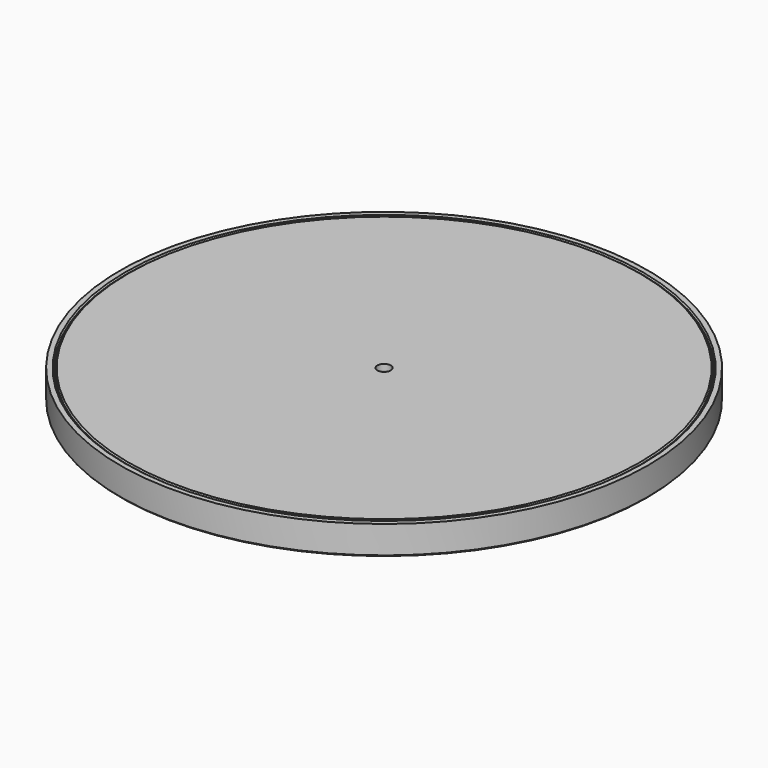
from build123d import *

# Parameters (mm, degrees)
F0_R      = 84
F1_DEPTH  = 1.2
F2_R      = 84
F2_R_2    = 82
F3_DEPTH  = 8
F4_R      = 82
F4_R_2    = 79
F5_DEPTH  = 3.5
F6_R      = 1
F8_DEPTH  = 6
F9_R      = 2.15
F10_DEPTH = 9.201
F12_DEPTH = 3
F13_R     = 0.8
F14_SIZE  = 0.4
F15_R     = 81.8
F15_R_2   = 2.15
F16_DEPTH = 2
F17_R     = 81.8
F17_R_2   = 78.8
F18_DEPTH = 3.2
F19_SIZE  = 0.4


with BuildPart() as f1:
    # F0 (on Top) → F1 (new body)
    with BuildSketch(Plane.XY):
        Circle(F0_R)
    extrude(amount=F1_DEPTH)

    # F2 (on face) → F3 (join)
    with BuildSketch(Plane.XY.offset(1.2)):
        Circle(F2_R)
        Circle(F2_R_2, mode=Mode.SUBTRACT)
    extrude(amount=F3_DEPTH)

    # F4 (on face) → F5 (join)
    with BuildSketch(Plane.XY.offset(1.2)):
        Circle(F4_R)
        Circle(F4_R_2, mode=Mode.SUBTRACT)
    extrude(amount=F5_DEPTH)

    # F6
    f6_edges = [f1.edges().sort_by_distance(p)[0] for p in [
        (-79, 0, 4.7),
    ]]
    fillet(f6_edges, radius=F6_R)

    # F7 (on face) → F8 (join)
    with BuildSketch(Plane.XY.offset(1.2)):
        with BuildLine():
            Line((-3.25, -5.25), (3.25, -5.25))
            ThreePointArc((3.25, -5.25), (6.078427, -4.078427), (7.25, -1.25))
            Line((7.25, -1.25), (7.25, 1.25))
            ThreePointArc((7.25, 1.25), (6.078427, 4.078427), (3.25, 5.25))
            Line((3.25, 5.25), (-3.25, 5.25))
            ThreePointArc((-3.25, 5.25), (-6.078427, 4.078427), (-7.25, 1.25))
            Line((-7.25, 1.25), (-7.25, -1.25))
            ThreePointArc((-7.25, -1.25), (-6.078427, -4.078427), (-3.25, -5.25))
        make_face()
    extrude(amount=F8_DEPTH)

    # F9 (on face) → F10 (cut, through all)
    with BuildSketch(Plane(origin=(0, 0, 0), x_dir=(1, 0, 0), z_dir=(0, 0, -1))):
        Circle(F9_R)
    extrude(amount=-F10_DEPTH, mode=Mode.SUBTRACT)

    # F11 (on face) → F12 (cut)
    with BuildSketch(Plane(origin=(0, 0, 0), x_dir=(1, 0, 0), z_dir=(0, 0, -1))):
        Polygon((-2.049593, 3.55), (-4.099187, 0), (-2.049593, -3.55), (2.049593, -3.55), (4.099187, 0), (2.049593, 3.55), align=None)
    extrude(amount=-F12_DEPTH, mode=Mode.SUBTRACT)

    # F13
    f13_edges = [f1.edges().sort_by_distance(p)[0] for p in [
        (6.078427, 4.078427, 7.2),
    ]]
    fillet(f13_edges, radius=F13_R)

    # F14
    f14_edges = [f1.edges().sort_by_distance(p)[0] for p in [
        (-82, 0, 9.2),
        (-84, 0, 0),
    ]]
    chamfer(f14_edges, length=F14_SIZE)


with BuildPart() as f16:
    # F15 (on face) → F16 (new body, through all)
    with BuildSketch(Plane.XY.offset(9.2)):
        Circle(F15_R)
        Circle(F15_R_2, mode=Mode.SUBTRACT)
    extrude(amount=-F16_DEPTH)

    # F17 (on face) → F18 (join)
    with BuildSketch(Plane.XY.offset(9.2)):
        Circle(F17_R)
        Circle(F17_R_2, mode=Mode.SUBTRACT)
    extrude(amount=-F18_DEPTH)

    # F19
    f19_edges = [f16.edges().sort_by_distance(p)[0] for p in [
        (-81.8, 0, 9.2),
    ]]
    chamfer(f19_edges, length=F19_SIZE)


solid = Compound([f1.part, f16.part])
